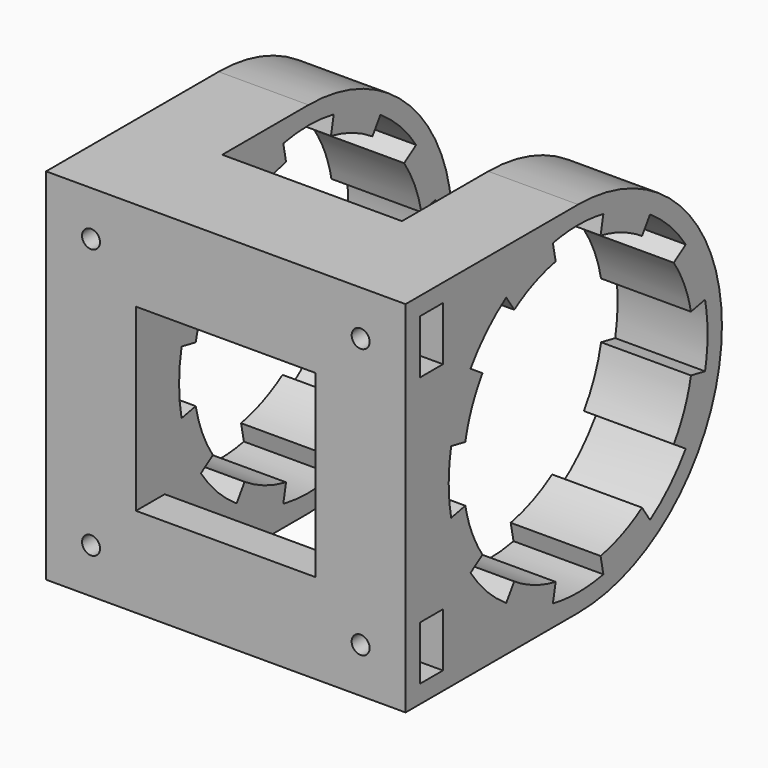
from build123d import *

# Parameters (mm, degrees)
F1_DEPTH = 50
F2_DEPTH = 25
F3_R     = 2.5
F4_DEPTH = 20
F3_W     = 50
F3_H     = 50
F5_DEPTH = 110.001
F6_W     = 8
F6_H     = 15
F7_DEPTH = 100.001


with BuildPart() as f1:
    # F0 (on Right) → F1 (new body, symmetric)
    with BuildSketch(Plane.YZ):
        with BuildLine():
            ThreePointArc((-50, 1.048e-07), (-35.3553390223, 35.3553390964), (0, 50))
            Line((0, 50), (-30, 50))
            Line((-30, 50), (-50, 30))
            Line((-50, 30), (-50, 1.048e-07))
        make_face()
        Polygon((-50, 30), (-30, 50), (-50, 50), align=None)
        Polygon((-50, -30), (-50, 1.048e-07), (-50, 30), (-50, 50), (-60, 50), (-60, -50), (-50, -50), align=None)
        with BuildLine():
            ThreePointArc((0, -50), (35.3553390593, -35.3553390593), (50, 0))
            ThreePointArc((50, 0), (35.3553390593, 35.3553390593), (0, 50))
            ThreePointArc((0, 50), (-35.3553390223, 35.3553390964), (-50, 1.048e-07))
            ThreePointArc((-50, 1.048e-07), (-35.3553390964, -35.3553390223), (0, -50))
        make_face()
        with BuildLine():
            ThreePointArc((44.1353376181, 8.7790644907), (44.7833127002, 4.4107713148), (45, 0))
            ThreePointArc((45, 0), (44.7833127002, -4.4107713148), (44.1353376181, -8.7790644907))
            ThreePointArc((44.1353376181, -8.7790644907), (43.0623151079, -13.0628104765), (41.574578963, -17.2207544564))
            ThreePointArc((41.574578963, -17.2207544564), (39.6864568957, -21.2128531572), (37.4161325536, -25.0006604859))
            ThreePointArc((37.4161325536, -25.0006604859), (34.7854704013, -28.5476977874), (31.8198051534, -31.8198051534))
            ThreePointArc((31.8198051534, -31.8198051534), (28.5476977874, -34.7854704013), (25.0006604859, -37.4161325536))
            ThreePointArc((25.0006604859, -37.4161325536), (21.2128531572, -39.6864568957), (17.2207544564, -41.574578963))
            ThreePointArc((17.2207544564, -41.574578963), (13.0628104765, -43.0623151079), (8.7790644907, -44.1353376181))
            ThreePointArc((8.7790644907, -44.1353376181), (4.4107713148, -44.7833127002), (0, -45))
            ThreePointArc((0, -45), (-4.4107713148, -44.7833127002), (-8.7790644907, -44.1353376181))
            ThreePointArc((-8.7790644907, -44.1353376181), (-13.0628104765, -43.0623151079), (-17.2207544564, -41.574578963))
            ThreePointArc((-17.2207544564, -41.574578963), (-21.2128531572, -39.6864568957), (-25.0006604859, -37.4161325536))
            ThreePointArc((-25.0006604859, -37.4161325536), (-28.5476977874, -34.7854704013), (-31.8198051534, -31.8198051534))
            ThreePointArc((-31.8198051534, -31.8198051534), (-34.7854704013, -28.5476977874), (-37.4161325536, -25.0006604859))
            ThreePointArc((-37.4161325536, -25.0006604859), (-39.6864568957, -21.2128531572), (-41.574578963, -17.2207544564))
            ThreePointArc((-41.574578963, -17.2207544564), (-43.0623151079, -13.0628104765), (-44.1353376181, -8.7790644907))
            ThreePointArc((-44.1353376181, -8.7790644907), (-44.7833127002, -4.4107713148), (-45, 0))
            ThreePointArc((-45, 0), (-44.7833127002, 4.4107713148), (-44.1353376181, 8.7790644907))
            ThreePointArc((-44.1353376181, 8.7790644907), (-43.0623151079, 13.0628104765), (-41.574578963, 17.2207544564))
            ThreePointArc((-41.574578963, 17.2207544564), (-39.6864568957, 21.2128531572), (-37.4161325536, 25.0006604859))
            ThreePointArc((-37.4161325536, 25.0006604859), (-34.7854704013, 28.5476977874), (-31.8198051534, 31.8198051534))
            ThreePointArc((-31.8198051534, 31.8198051534), (-28.5476977874, 34.7854704013), (-25.0006604859, 37.4161325536))
            ThreePointArc((-25.0006604859, 37.4161325536), (-21.2128531572, 39.6864568957), (-17.2207544564, 41.574578963))
            ThreePointArc((-17.2207544564, 41.574578963), (-13.0628104765, 43.0623151079), (-8.7790644907, 44.1353376181))
            ThreePointArc((-8.7790644907, 44.1353376181), (-4.4107713148, 44.7833127002), (0, 45))
            ThreePointArc((0, 45), (4.4107713148, 44.7833127002), (8.7790644907, 44.1353376181))
            ThreePointArc((8.7790644907, 44.1353376181), (13.0628104765, 43.0623151079), (17.2207544564, 41.574578963))
            ThreePointArc((17.2207544564, 41.574578963), (21.2128531572, 39.6864568957), (25.0006604859, 37.4161325536))
            ThreePointArc((25.0006604859, 37.4161325536), (28.5476977874, 34.7854704013), (31.8198051534, 31.8198051534))
            ThreePointArc((31.8198051534, 31.8198051534), (34.7854704013, 28.5476977874), (37.4161325536, 25.0006604859))
            ThreePointArc((37.4161325536, 25.0006604859), (39.6864568957, 21.2128531572), (41.574578963, 17.2207544564))
            ThreePointArc((41.574578963, 17.2207544564), (43.0623151079, 13.0628104765), (44.1353376181, 8.7790644907))
        make_face(mode=Mode.SUBTRACT)
        with BuildLine():
            ThreePointArc((-15.3073372946, 36.9551813005), (-11.6113870902, 38.2776134293), (-7.8036128806, 39.2314112161))
            Line((-7.8036128806, 39.2314112161), (-8.7790644907, 44.1353376181))
            ThreePointArc((-8.7790644907, 44.1353376181), (-13.0628104765, 43.0623151079), (-17.2207544564, 41.574578963))
            Line((-17.2207544564, 41.574578963), (-15.3073372946, 36.9551813005))
        make_face()
        with BuildLine():
            ThreePointArc((-22.2228093208, 33.2587844921), (-18.855869473, 35.2768505739), (-15.3073372946, 36.9551813005))
            Line((-15.3073372946, 36.9551813005), (-17.2207544564, 41.574578963))
            ThreePointArc((-17.2207544564, 41.574578963), (-21.2128531572, 39.6864568957), (-25.0006604859, 37.4161325536))
            Line((-25.0006604859, 37.4161325536), (-22.2228093208, 33.2587844921))
        make_face()
        with BuildLine():
            ThreePointArc((-36.9551813005, 15.3073372946), (-35.2768505739, 18.855869473), (-33.2587844921, 22.2228093208))
            Line((-33.2587844921, 22.2228093208), (-37.4161325536, 25.0006604859))
            ThreePointArc((-37.4161325536, 25.0006604859), (-39.6864568957, 21.2128531572), (-41.574578963, 17.2207544564))
            Line((-41.574578963, 17.2207544564), (-36.9551813005, 15.3073372946))
        make_face()
        with BuildLine():
            ThreePointArc((-39.2314112161, 7.8036128806), (-38.2776134293, 11.6113870902), (-36.9551813005, 15.3073372946))
            Line((-36.9551813005, 15.3073372946), (-41.574578963, 17.2207544564))
            ThreePointArc((-41.574578963, 17.2207544564), (-43.0623151079, 13.0628104765), (-44.1353376181, 8.7790644907))
            Line((-44.1353376181, 8.7790644907), (-39.2314112161, 7.8036128806))
        make_face()
        with BuildLine():
            ThreePointArc((-36.9551813005, -15.3073372946), (-38.2776134293, -11.6113870902), (-39.2314112161, -7.8036128806))
            Line((-39.2314112161, -7.8036128806), (-44.1353376181, -8.7790644907))
            ThreePointArc((-44.1353376181, -8.7790644907), (-43.0623151079, -13.0628104765), (-41.574578963, -17.2207544564))
            Line((-41.574578963, -17.2207544564), (-36.9551813005, -15.3073372946))
        make_face()
        with BuildLine():
            ThreePointArc((-33.2587844921, -22.2228093208), (-35.2768505739, -18.855869473), (-36.9551813005, -15.3073372946))
            Line((-36.9551813005, -15.3073372946), (-41.574578963, -17.2207544564))
            ThreePointArc((-41.574578963, -17.2207544564), (-39.6864568957, -21.2128531572), (-37.4161325536, -25.0006604859))
            Line((-37.4161325536, -25.0006604859), (-33.2587844921, -22.2228093208))
        make_face()
        with BuildLine():
            ThreePointArc((-15.3073372946, -36.9551813005), (-18.855869473, -35.2768505739), (-22.2228093208, -33.2587844921))
            Line((-22.2228093208, -33.2587844921), (-25.0006604859, -37.4161325536))
            ThreePointArc((-25.0006604859, -37.4161325536), (-21.2128531572, -39.6864568957), (-17.2207544564, -41.574578963))
            Line((-17.2207544564, -41.574578963), (-15.3073372946, -36.9551813005))
        make_face()
        with BuildLine():
            ThreePointArc((-7.8036128806, -39.2314112161), (-11.6113870902, -38.2776134293), (-15.3073372946, -36.9551813005))
            Line((-15.3073372946, -36.9551813005), (-17.2207544564, -41.574578963))
            ThreePointArc((-17.2207544564, -41.574578963), (-13.0628104765, -43.0623151079), (-8.7790644907, -44.1353376181))
            Line((-8.7790644907, -44.1353376181), (-7.8036128806, -39.2314112161))
        make_face()
        with BuildLine():
            ThreePointArc((15.3073372946, -36.9551813005), (11.6113870902, -38.2776134293), (7.8036128806, -39.2314112161))
            Line((7.8036128806, -39.2314112161), (8.7790644907, -44.1353376181))
            ThreePointArc((8.7790644907, -44.1353376181), (13.0628104765, -43.0623151079), (17.2207544564, -41.574578963))
            Line((17.2207544564, -41.574578963), (15.3073372946, -36.9551813005))
        make_face()
        with BuildLine():
            ThreePointArc((22.2228093208, -33.2587844921), (18.855869473, -35.2768505739), (15.3073372946, -36.9551813005))
            Line((15.3073372946, -36.9551813005), (17.2207544564, -41.574578963))
            ThreePointArc((17.2207544564, -41.574578963), (21.2128531572, -39.6864568957), (25.0006604859, -37.4161325536))
            Line((25.0006604859, -37.4161325536), (22.2228093208, -33.2587844921))
        make_face()
        with BuildLine():
            Line((41.574578963, -17.2207544564), (36.9551813005, -15.3073372946))
            ThreePointArc((36.9551813005, -15.3073372946), (35.2768505739, -18.855869473), (33.2587844921, -22.2228093208))
            Line((33.2587844921, -22.2228093208), (37.4161325536, -25.0006604859))
            ThreePointArc((37.4161325536, -25.0006604859), (39.6864568957, -21.2128531572), (41.574578963, -17.2207544564))
        make_face()
        with BuildLine():
            Line((44.1353376181, -8.7790644907), (39.2314112161, -7.8036128806))
            ThreePointArc((39.2314112161, -7.8036128806), (38.2776134293, -11.6113870902), (36.9551813005, -15.3073372946))
            Line((36.9551813005, -15.3073372946), (41.574578963, -17.2207544564))
            ThreePointArc((41.574578963, -17.2207544564), (43.0623151079, -13.0628104765), (44.1353376181, -8.7790644907))
        make_face()
        with BuildLine():
            ThreePointArc((36.9551813005, 15.3073372946), (38.2776134293, 11.6113870902), (39.2314112161, 7.8036128806))
            Line((39.2314112161, 7.8036128806), (44.1353376181, 8.7790644907))
            ThreePointArc((44.1353376181, 8.7790644907), (43.0623151079, 13.0628104765), (41.574578963, 17.2207544564))
            Line((41.574578963, 17.2207544564), (36.9551813005, 15.3073372946))
        make_face()
        with BuildLine():
            ThreePointArc((33.2587844921, 22.2228093208), (35.2768505739, 18.855869473), (36.9551813005, 15.3073372946))
            Line((36.9551813005, 15.3073372946), (41.574578963, 17.2207544564))
            ThreePointArc((41.574578963, 17.2207544564), (39.6864568957, 21.2128531572), (37.4161325536, 25.0006604859))
            Line((37.4161325536, 25.0006604859), (33.2587844921, 22.2228093208))
        make_face()
        with BuildLine():
            ThreePointArc((15.3073372946, 36.9551813005), (18.855869473, 35.2768505739), (22.2228093208, 33.2587844921))
            Line((22.2228093208, 33.2587844921), (25.0006604859, 37.4161325536))
            ThreePointArc((25.0006604859, 37.4161325536), (21.2128531572, 39.6864568957), (17.2207544564, 41.574578963))
            Line((17.2207544564, 41.574578963), (15.3073372946, 36.9551813005))
        make_face()
        with BuildLine():
            ThreePointArc((7.8036128806, 39.2314112161), (11.6113870902, 38.2776134293), (15.3073372946, 36.9551813005))
            Line((15.3073372946, 36.9551813005), (17.2207544564, 41.574578963))
            ThreePointArc((17.2207544564, 41.574578963), (13.0628104765, 43.0623151079), (8.7790644907, 44.1353376181))
            Line((8.7790644907, 44.1353376181), (7.8036128806, 39.2314112161))
        make_face()
        Polygon((-50, -30), (-50, 1.048e-07), (-50, 30), (-50, 50), (-60, 50), (-60, -50), (-50, -50), align=None)
        with BuildLine():
            Line((-30, -50), (0, -50))
            ThreePointArc((0, -50), (-35.3553390964, -35.3553390223), (-50, 1.048e-07))
            Line((-50, 1.048e-07), (-50, -30))
            Line((-50, -30), (-30, -50))
        make_face()
        with BuildLine():
            ThreePointArc((-50, 1.048e-07), (-35.3553390223, 35.3553390964), (0, 50))
            Line((0, 50), (-30, 50))
            Line((-30, 50), (-50, 30))
            Line((-50, 30), (-50, 1.048e-07))
        make_face()
        Polygon((-50, -50), (-30, -50), (-50, -30), align=None)
    extrude(amount=F1_DEPTH, both=True)

    # F0 (on Right) → F2 (cut, symmetric)
    with BuildSketch(Plane.YZ):
        with BuildLine():
            ThreePointArc((0, -50), (35.3553390593, -35.3553390593), (50, 0))
            ThreePointArc((50, 0), (35.3553390593, 35.3553390593), (0, 50))
            ThreePointArc((0, 50), (-35.3553390223, 35.3553390964), (-50, 1.048e-07))
            ThreePointArc((-50, 1.048e-07), (-35.3553390964, -35.3553390223), (0, -50))
        make_face()
        with BuildLine():
            ThreePointArc((44.1353376181, 8.7790644907), (44.7833127002, 4.4107713148), (45, 0))
            ThreePointArc((45, 0), (44.7833127002, -4.4107713148), (44.1353376181, -8.7790644907))
            ThreePointArc((44.1353376181, -8.7790644907), (43.0623151079, -13.0628104765), (41.574578963, -17.2207544564))
            ThreePointArc((41.574578963, -17.2207544564), (39.6864568957, -21.2128531572), (37.4161325536, -25.0006604859))
            ThreePointArc((37.4161325536, -25.0006604859), (34.7854704013, -28.5476977874), (31.8198051534, -31.8198051534))
            ThreePointArc((31.8198051534, -31.8198051534), (28.5476977874, -34.7854704013), (25.0006604859, -37.4161325536))
            ThreePointArc((25.0006604859, -37.4161325536), (21.2128531572, -39.6864568957), (17.2207544564, -41.574578963))
            ThreePointArc((17.2207544564, -41.574578963), (13.0628104765, -43.0623151079), (8.7790644907, -44.1353376181))
            ThreePointArc((8.7790644907, -44.1353376181), (4.4107713148, -44.7833127002), (0, -45))
            ThreePointArc((0, -45), (-4.4107713148, -44.7833127002), (-8.7790644907, -44.1353376181))
            ThreePointArc((-8.7790644907, -44.1353376181), (-13.0628104765, -43.0623151079), (-17.2207544564, -41.574578963))
            ThreePointArc((-17.2207544564, -41.574578963), (-21.2128531572, -39.6864568957), (-25.0006604859, -37.4161325536))
            ThreePointArc((-25.0006604859, -37.4161325536), (-28.5476977874, -34.7854704013), (-31.8198051534, -31.8198051534))
            ThreePointArc((-31.8198051534, -31.8198051534), (-34.7854704013, -28.5476977874), (-37.4161325536, -25.0006604859))
            ThreePointArc((-37.4161325536, -25.0006604859), (-39.6864568957, -21.2128531572), (-41.574578963, -17.2207544564))
            ThreePointArc((-41.574578963, -17.2207544564), (-43.0623151079, -13.0628104765), (-44.1353376181, -8.7790644907))
            ThreePointArc((-44.1353376181, -8.7790644907), (-44.7833127002, -4.4107713148), (-45, 0))
            ThreePointArc((-45, 0), (-44.7833127002, 4.4107713148), (-44.1353376181, 8.7790644907))
            ThreePointArc((-44.1353376181, 8.7790644907), (-43.0623151079, 13.0628104765), (-41.574578963, 17.2207544564))
            ThreePointArc((-41.574578963, 17.2207544564), (-39.6864568957, 21.2128531572), (-37.4161325536, 25.0006604859))
            ThreePointArc((-37.4161325536, 25.0006604859), (-34.7854704013, 28.5476977874), (-31.8198051534, 31.8198051534))
            ThreePointArc((-31.8198051534, 31.8198051534), (-28.5476977874, 34.7854704013), (-25.0006604859, 37.4161325536))
            ThreePointArc((-25.0006604859, 37.4161325536), (-21.2128531572, 39.6864568957), (-17.2207544564, 41.574578963))
            ThreePointArc((-17.2207544564, 41.574578963), (-13.0628104765, 43.0623151079), (-8.7790644907, 44.1353376181))
            ThreePointArc((-8.7790644907, 44.1353376181), (-4.4107713148, 44.7833127002), (0, 45))
            ThreePointArc((0, 45), (4.4107713148, 44.7833127002), (8.7790644907, 44.1353376181))
            ThreePointArc((8.7790644907, 44.1353376181), (13.0628104765, 43.0623151079), (17.2207544564, 41.574578963))
            ThreePointArc((17.2207544564, 41.574578963), (21.2128531572, 39.6864568957), (25.0006604859, 37.4161325536))
            ThreePointArc((25.0006604859, 37.4161325536), (28.5476977874, 34.7854704013), (31.8198051534, 31.8198051534))
            ThreePointArc((31.8198051534, 31.8198051534), (34.7854704013, 28.5476977874), (37.4161325536, 25.0006604859))
            ThreePointArc((37.4161325536, 25.0006604859), (39.6864568957, 21.2128531572), (41.574578963, 17.2207544564))
            ThreePointArc((41.574578963, 17.2207544564), (43.0623151079, 13.0628104765), (44.1353376181, 8.7790644907))
        make_face(mode=Mode.SUBTRACT)
        with BuildLine():
            ThreePointArc((0, -40), (-3.9206856132, -39.8073890669), (-7.8036128806, -39.2314112161))
            Line((-7.8036128806, -39.2314112161), (-8.7790644907, -44.1353376181))
            ThreePointArc((-8.7790644907, -44.1353376181), (-4.4107713148, -44.7833127002), (0, -45))
            Line((0, -45), (0, -40))
        make_face()
        with BuildLine():
            Line((0, 0), (40, 0))
            ThreePointArc((40, 0), (39.8073890669, 3.9206856132), (39.2314112161, 7.8036128806))
            Line((39.2314112161, 7.8036128806), (0, 0))
        make_face()
        with BuildLine():
            ThreePointArc((39.2314112161, -7.8036128806), (39.8073890669, -3.9206856132), (40, 0))
            Line((40, 0), (0, 0))
            Line((0, 0), (39.2314112161, -7.8036128806))
        make_face()
        with BuildLine():
            Line((0, 0), (39.2314112161, 7.8036128806))
            ThreePointArc((39.2314112161, 7.8036128806), (38.2776134293, 11.6113870902), (36.9551813005, 15.3073372946))
            Line((36.9551813005, 15.3073372946), (0, 0))
        make_face()
        with BuildLine():
            ThreePointArc((-22.2228093208, 33.2587844921), (-18.855869473, 35.2768505739), (-15.3073372946, 36.9551813005))
            Line((-15.3073372946, 36.9551813005), (-17.2207544564, 41.574578963))
            ThreePointArc((-17.2207544564, 41.574578963), (-21.2128531572, 39.6864568957), (-25.0006604859, 37.4161325536))
            Line((-25.0006604859, 37.4161325536), (-22.2228093208, 33.2587844921))
        make_face()
        with BuildLine():
            ThreePointArc((-33.2587844921, 22.2228093208), (-30.9204181345, 25.3757313665), (-28.2842712475, 28.2842712475))
            Line((-28.2842712475, 28.2842712475), (-31.8198051534, 31.8198051534))
            ThreePointArc((-31.8198051534, 31.8198051534), (-34.7854704013, 28.5476977874), (-37.4161325536, 25.0006604859))
            Line((-37.4161325536, 25.0006604859), (-33.2587844921, 22.2228093208))
        make_face()
        with BuildLine():
            ThreePointArc((-33.2587844921, -22.2228093208), (-35.2768505739, -18.855869473), (-36.9551813005, -15.3073372946))
            Line((-36.9551813005, -15.3073372946), (-41.574578963, -17.2207544564))
            ThreePointArc((-41.574578963, -17.2207544564), (-39.6864568957, -21.2128531572), (-37.4161325536, -25.0006604859))
            Line((-37.4161325536, -25.0006604859), (-33.2587844921, -22.2228093208))
        make_face()
        with BuildLine():
            Line((-15.3073372946, 36.9551813005), (0, 0))
            Line((0, 0), (-7.8036128806, 39.2314112161))
            ThreePointArc((-7.8036128806, 39.2314112161), (-11.6113870902, 38.2776134293), (-15.3073372946, 36.9551813005))
        make_face()
        with BuildLine():
            ThreePointArc((33.2587844921, -22.2228093208), (30.9204181345, -25.3757313665), (28.2842712475, -28.2842712475))
            Line((28.2842712475, -28.2842712475), (31.8198051534, -31.8198051534))
            ThreePointArc((31.8198051534, -31.8198051534), (34.7854704013, -28.5476977874), (37.4161325536, -25.0006604859))
            Line((37.4161325536, -25.0006604859), (33.2587844921, -22.2228093208))
        make_face()
        with BuildLine():
            Line((-45, 0), (-40, 0))
            ThreePointArc((-40, 0), (-39.8073890669, 3.9206856132), (-39.2314112161, 7.8036128806))
            Line((-39.2314112161, 7.8036128806), (-44.1353376181, 8.7790644907))
            ThreePointArc((-44.1353376181, 8.7790644907), (-44.7833127002, 4.4107713148), (-45, 0))
        make_face()
        with BuildLine():
            ThreePointArc((22.2228093208, 33.2587844921), (25.3757313665, 30.9204181345), (28.2842712475, 28.2842712475))
            Line((28.2842712475, 28.2842712475), (31.8198051534, 31.8198051534))
            ThreePointArc((31.8198051534, 31.8198051534), (28.5476977874, 34.7854704013), (25.0006604859, 37.4161325536))
            Line((25.0006604859, 37.4161325536), (22.2228093208, 33.2587844921))
        make_face()
        with BuildLine():
            ThreePointArc((36.9551813005, 15.3073372946), (38.2776134293, 11.6113870902), (39.2314112161, 7.8036128806))
            Line((39.2314112161, 7.8036128806), (44.1353376181, 8.7790644907))
            ThreePointArc((44.1353376181, 8.7790644907), (43.0623151079, 13.0628104765), (41.574578963, 17.2207544564))
            Line((41.574578963, 17.2207544564), (36.9551813005, 15.3073372946))
        make_face()
        with BuildLine():
            ThreePointArc((7.8036128806, -39.2314112161), (3.9206856132, -39.8073890669), (0, -40))
            Line((0, -40), (0, -45))
            ThreePointArc((0, -45), (4.4107713148, -44.7833127002), (8.7790644907, -44.1353376181))
            Line((8.7790644907, -44.1353376181), (7.8036128806, -39.2314112161))
        make_face()
        with BuildLine():
            Line((-39.2314112161, -7.8036128806), (0, 0))
            Line((0, 0), (-40, 0))
            ThreePointArc((-40, 0), (-39.8073890669, -3.9206856132), (-39.2314112161, -7.8036128806))
        make_face()
        with BuildLine():
            ThreePointArc((39.2314112161, 7.8036128806), (39.8073890669, 3.9206856132), (40, 0))
            Line((40, 0), (45, 0))
            ThreePointArc((45, 0), (44.7833127002, 4.4107713148), (44.1353376181, 8.7790644907))
            Line((44.1353376181, 8.7790644907), (39.2314112161, 7.8036128806))
        make_face()
        with BuildLine():
            ThreePointArc((-7.8036128806, -39.2314112161), (-11.6113870902, -38.2776134293), (-15.3073372946, -36.9551813005))
            Line((-15.3073372946, -36.9551813005), (-17.2207544564, -41.574578963))
            ThreePointArc((-17.2207544564, -41.574578963), (-13.0628104765, -43.0623151079), (-8.7790644907, -44.1353376181))
            Line((-8.7790644907, -44.1353376181), (-7.8036128806, -39.2314112161))
        make_face()
        with BuildLine():
            Line((15.3073372946, -36.9551813005), (0, 0))
            Line((0, 0), (7.8036128806, -39.2314112161))
            ThreePointArc((7.8036128806, -39.2314112161), (11.6113870902, -38.2776134293), (15.3073372946, -36.9551813005))
        make_face()
        with BuildLine():
            Line((-7.8036128806, 39.2314112161), (0, 0))
            Line((0, 0), (0, 40))
            ThreePointArc((0, 40), (-3.9206856132, 39.8073890669), (-7.8036128806, 39.2314112161))
        make_face()
        with BuildLine():
            Line((-22.2228093208, 33.2587844921), (0, 0))
            Line((0, 0), (-15.3073372946, 36.9551813005))
            ThreePointArc((-15.3073372946, 36.9551813005), (-18.855869473, 35.2768505739), (-22.2228093208, 33.2587844921))
        make_face()
        with BuildLine():
            ThreePointArc((-15.3073372946, -36.9551813005), (-18.855869473, -35.2768505739), (-22.2228093208, -33.2587844921))
            Line((-22.2228093208, -33.2587844921), (-25.0006604859, -37.4161325536))
            ThreePointArc((-25.0006604859, -37.4161325536), (-21.2128531572, -39.6864568957), (-17.2207544564, -41.574578963))
            Line((-17.2207544564, -41.574578963), (-15.3073372946, -36.9551813005))
        make_face()
        with BuildLine():
            Line((33.2587844921, -22.2228093208), (0, 0))
            Line((0, 0), (28.2842712475, -28.2842712475))
            ThreePointArc((28.2842712475, -28.2842712475), (30.9204181345, -25.3757313665), (33.2587844921, -22.2228093208))
        make_face()
        with BuildLine():
            ThreePointArc((-28.2842712475, -28.2842712475), (-30.9204181345, -25.3757313665), (-33.2587844921, -22.2228093208))
            Line((-33.2587844921, -22.2228093208), (-37.4161325536, -25.0006604859))
            ThreePointArc((-37.4161325536, -25.0006604859), (-34.7854704013, -28.5476977874), (-31.8198051534, -31.8198051534))
            Line((-31.8198051534, -31.8198051534), (-28.2842712475, -28.2842712475))
        make_face()
        with BuildLine():
            ThreePointArc((28.2842712475, 28.2842712475), (30.9204181345, 25.3757313665), (33.2587844921, 22.2228093208))
            Line((33.2587844921, 22.2228093208), (37.4161325536, 25.0006604859))
            ThreePointArc((37.4161325536, 25.0006604859), (34.7854704013, 28.5476977874), (31.8198051534, 31.8198051534))
            Line((31.8198051534, 31.8198051534), (28.2842712475, 28.2842712475))
        make_face()
        with BuildLine():
            Line((33.2587844921, 22.2228093208), (0, 0))
            Line((0, 0), (36.9551813005, 15.3073372946))
            ThreePointArc((36.9551813005, 15.3073372946), (35.2768505739, 18.855869473), (33.2587844921, 22.2228093208))
        make_face()
        with BuildLine():
            Line((-7.8036128806, -39.2314112161), (0, 0))
            Line((0, 0), (-15.3073372946, -36.9551813005))
            ThreePointArc((-15.3073372946, -36.9551813005), (-11.6113870902, -38.2776134293), (-7.8036128806, -39.2314112161))
        make_face()
        with BuildLine():
            ThreePointArc((33.2587844921, 22.2228093208), (35.2768505739, 18.855869473), (36.9551813005, 15.3073372946))
            Line((36.9551813005, 15.3073372946), (41.574578963, 17.2207544564))
            ThreePointArc((41.574578963, 17.2207544564), (39.6864568957, 21.2128531572), (37.4161325536, 25.0006604859))
            Line((37.4161325536, 25.0006604859), (33.2587844921, 22.2228093208))
        make_face()
        with BuildLine():
            ThreePointArc((15.3073372946, -36.9551813005), (11.6113870902, -38.2776134293), (7.8036128806, -39.2314112161))
            Line((7.8036128806, -39.2314112161), (8.7790644907, -44.1353376181))
            ThreePointArc((8.7790644907, -44.1353376181), (13.0628104765, -43.0623151079), (17.2207544564, -41.574578963))
            Line((17.2207544564, -41.574578963), (15.3073372946, -36.9551813005))
        make_face()
        with BuildLine():
            Line((45, 0), (40, 0))
            ThreePointArc((40, 0), (39.8073890669, -3.9206856132), (39.2314112161, -7.8036128806))
            Line((39.2314112161, -7.8036128806), (44.1353376181, -8.7790644907))
            ThreePointArc((44.1353376181, -8.7790644907), (44.7833127002, -4.4107713148), (45, 0))
        make_face()
        with BuildLine():
            Line((-36.9551813005, 15.3073372946), (0, 0))
            Line((0, 0), (-33.2587844921, 22.2228093208))
            ThreePointArc((-33.2587844921, 22.2228093208), (-35.2768505739, 18.855869473), (-36.9551813005, 15.3073372946))
        make_face()
        with BuildLine():
            Line((-33.2587844921, 22.2228093208), (0, 0))
            Line((0, 0), (-28.2842712475, 28.2842712475))
            ThreePointArc((-28.2842712475, 28.2842712475), (-30.9204181345, 25.3757313665), (-33.2587844921, 22.2228093208))
        make_face()
        with BuildLine():
            Line((-40, 0), (0, 0))
            Line((0, 0), (-39.2314112161, 7.8036128806))
            ThreePointArc((-39.2314112161, 7.8036128806), (-39.8073890669, 3.9206856132), (-40, 0))
        make_face()
        with BuildLine():
            Line((15.3073372946, 36.9551813005), (0, 0))
            Line((0, 0), (22.2228093208, 33.2587844921))
            ThreePointArc((22.2228093208, 33.2587844921), (18.855869473, 35.2768505739), (15.3073372946, 36.9551813005))
        make_face()
        with BuildLine():
            Line((36.9551813005, -15.3073372946), (0, 0))
            Line((0, 0), (33.2587844921, -22.2228093208))
            ThreePointArc((33.2587844921, -22.2228093208), (35.2768505739, -18.855869473), (36.9551813005, -15.3073372946))
        make_face()
        with BuildLine():
            ThreePointArc((-36.9551813005, 15.3073372946), (-35.2768505739, 18.855869473), (-33.2587844921, 22.2228093208))
            Line((-33.2587844921, 22.2228093208), (-37.4161325536, 25.0006604859))
            ThreePointArc((-37.4161325536, 25.0006604859), (-39.6864568957, 21.2128531572), (-41.574578963, 17.2207544564))
            Line((-41.574578963, 17.2207544564), (-36.9551813005, 15.3073372946))
        make_face()
        with BuildLine():
            ThreePointArc((-28.2842712475, 28.2842712475), (-25.3757313665, 30.9204181345), (-22.2228093208, 33.2587844921))
            Line((-22.2228093208, 33.2587844921), (-25.0006604859, 37.4161325536))
            ThreePointArc((-25.0006604859, 37.4161325536), (-28.5476977874, 34.7854704013), (-31.8198051534, 31.8198051534))
            Line((-31.8198051534, 31.8198051534), (-28.2842712475, 28.2842712475))
        make_face()
        with BuildLine():
            ThreePointArc((28.2842712475, -28.2842712475), (25.3757313665, -30.9204181345), (22.2228093208, -33.2587844921))
            Line((22.2228093208, -33.2587844921), (25.0006604859, -37.4161325536))
            ThreePointArc((25.0006604859, -37.4161325536), (28.5476977874, -34.7854704013), (31.8198051534, -31.8198051534))
            Line((31.8198051534, -31.8198051534), (28.2842712475, -28.2842712475))
        make_face()
        with BuildLine():
            Line((28.2842712475, -28.2842712475), (0, 0))
            Line((0, 0), (22.2228093208, -33.2587844921))
            ThreePointArc((22.2228093208, -33.2587844921), (25.3757313665, -30.9204181345), (28.2842712475, -28.2842712475))
        make_face()
        with BuildLine():
            ThreePointArc((-22.2228093208, -33.2587844921), (-25.3757313665, -30.9204181345), (-28.2842712475, -28.2842712475))
            Line((-28.2842712475, -28.2842712475), (-31.8198051534, -31.8198051534))
            ThreePointArc((-31.8198051534, -31.8198051534), (-28.5476977874, -34.7854704013), (-25.0006604859, -37.4161325536))
            Line((-25.0006604859, -37.4161325536), (-22.2228093208, -33.2587844921))
        make_face()
        with BuildLine():
            ThreePointArc((22.2228093208, -33.2587844921), (18.855869473, -35.2768505739), (15.3073372946, -36.9551813005))
            Line((15.3073372946, -36.9551813005), (17.2207544564, -41.574578963))
            ThreePointArc((17.2207544564, -41.574578963), (21.2128531572, -39.6864568957), (25.0006604859, -37.4161325536))
            Line((25.0006604859, -37.4161325536), (22.2228093208, -33.2587844921))
        make_face()
        with BuildLine():
            Line((-15.3073372946, -36.9551813005), (0, 0))
            Line((0, 0), (-22.2228093208, -33.2587844921))
            ThreePointArc((-22.2228093208, -33.2587844921), (-18.855869473, -35.2768505739), (-15.3073372946, -36.9551813005))
        make_face()
        with BuildLine():
            ThreePointArc((-36.9551813005, -15.3073372946), (-38.2776134293, -11.6113870902), (-39.2314112161, -7.8036128806))
            Line((-39.2314112161, -7.8036128806), (-44.1353376181, -8.7790644907))
            ThreePointArc((-44.1353376181, -8.7790644907), (-43.0623151079, -13.0628104765), (-41.574578963, -17.2207544564))
            Line((-41.574578963, -17.2207544564), (-36.9551813005, -15.3073372946))
        make_face()
        with BuildLine():
            Line((-36.9551813005, -15.3073372946), (0, 0))
            Line((0, 0), (-39.2314112161, -7.8036128806))
            ThreePointArc((-39.2314112161, -7.8036128806), (-38.2776134293, -11.6113870902), (-36.9551813005, -15.3073372946))
        make_face()
        with BuildLine():
            ThreePointArc((36.9551813005, -15.3073372946), (38.2776134293, -11.6113870902), (39.2314112161, -7.8036128806))
            Line((39.2314112161, -7.8036128806), (0, 0))
            Line((0, 0), (36.9551813005, -15.3073372946))
        make_face()
        with BuildLine():
            Line((7.8036128806, 39.2314112161), (0, 0))
            Line((0, 0), (15.3073372946, 36.9551813005))
            ThreePointArc((15.3073372946, 36.9551813005), (11.6113870902, 38.2776134293), (7.8036128806, 39.2314112161))
        make_face()
        with BuildLine():
            Line((-28.2842712475, 28.2842712475), (0, 0))
            Line((0, 0), (-22.2228093208, 33.2587844921))
            ThreePointArc((-22.2228093208, 33.2587844921), (-25.3757313665, 30.9204181345), (-28.2842712475, 28.2842712475))
        make_face()
        with BuildLine():
            Line((0, -40), (0, 0))
            Line((0, 0), (-7.8036128806, -39.2314112161))
            ThreePointArc((-7.8036128806, -39.2314112161), (-3.9206856132, -39.8073890669), (0, -40))
        make_face()
        with BuildLine():
            ThreePointArc((-39.2314112161, -7.8036128806), (-39.8073890669, -3.9206856132), (-40, 0))
            Line((-40, 0), (-45, 0))
            ThreePointArc((-45, 0), (-44.7833127002, -4.4107713148), (-44.1353376181, -8.7790644907))
            Line((-44.1353376181, -8.7790644907), (-39.2314112161, -7.8036128806))
        make_face()
        with BuildLine():
            Line((-33.2587844921, -22.2228093208), (0, 0))
            Line((0, 0), (-36.9551813005, -15.3073372946))
            ThreePointArc((-36.9551813005, -15.3073372946), (-35.2768505739, -18.855869473), (-33.2587844921, -22.2228093208))
        make_face()
        with BuildLine():
            ThreePointArc((-15.3073372946, 36.9551813005), (-11.6113870902, 38.2776134293), (-7.8036128806, 39.2314112161))
            Line((-7.8036128806, 39.2314112161), (-8.7790644907, 44.1353376181))
            ThreePointArc((-8.7790644907, 44.1353376181), (-13.0628104765, 43.0623151079), (-17.2207544564, 41.574578963))
            Line((-17.2207544564, 41.574578963), (-15.3073372946, 36.9551813005))
        make_face()
        with BuildLine():
            Line((-28.2842712475, -28.2842712475), (0, 0))
            Line((0, 0), (-33.2587844921, -22.2228093208))
            ThreePointArc((-33.2587844921, -22.2228093208), (-30.9204181345, -25.3757313665), (-28.2842712475, -28.2842712475))
        make_face()
        with BuildLine():
            Line((28.2842712475, 28.2842712475), (0, 0))
            Line((0, 0), (33.2587844921, 22.2228093208))
            ThreePointArc((33.2587844921, 22.2228093208), (30.9204181345, 25.3757313665), (28.2842712475, 28.2842712475))
        make_face()
        with BuildLine():
            Line((22.2228093208, 33.2587844921), (0, 0))
            Line((0, 0), (28.2842712475, 28.2842712475))
            ThreePointArc((28.2842712475, 28.2842712475), (25.3757313665, 30.9204181345), (22.2228093208, 33.2587844921))
        make_face()
        with BuildLine():
            ThreePointArc((7.8036128806, 39.2314112161), (11.6113870902, 38.2776134293), (15.3073372946, 36.9551813005))
            Line((15.3073372946, 36.9551813005), (17.2207544564, 41.574578963))
            ThreePointArc((17.2207544564, 41.574578963), (13.0628104765, 43.0623151079), (8.7790644907, 44.1353376181))
            Line((8.7790644907, 44.1353376181), (7.8036128806, 39.2314112161))
        make_face()
        with BuildLine():
            Line((7.8036128806, -39.2314112161), (0, 0))
            Line((0, 0), (0, -40))
            ThreePointArc((0, -40), (3.9206856132, -39.8073890669), (7.8036128806, -39.2314112161))
        make_face()
        with BuildLine():
            Line((-22.2228093208, -33.2587844921), (0, 0))
            Line((0, 0), (-28.2842712475, -28.2842712475))
            ThreePointArc((-28.2842712475, -28.2842712475), (-25.3757313665, -30.9204181345), (-22.2228093208, -33.2587844921))
        make_face()
        with BuildLine():
            Line((-39.2314112161, 7.8036128806), (0, 0))
            Line((0, 0), (-36.9551813005, 15.3073372946))
            ThreePointArc((-36.9551813005, 15.3073372946), (-38.2776134293, 11.6113870902), (-39.2314112161, 7.8036128806))
        make_face()
        with BuildLine():
            ThreePointArc((-7.8036128806, 39.2314112161), (-3.9206856132, 39.8073890669), (0, 40))
            Line((0, 40), (0, 45))
            ThreePointArc((0, 45), (-4.4107713148, 44.7833127002), (-8.7790644907, 44.1353376181))
            Line((-8.7790644907, 44.1353376181), (-7.8036128806, 39.2314112161))
        make_face()
        with BuildLine():
            Line((41.574578963, -17.2207544564), (36.9551813005, -15.3073372946))
            ThreePointArc((36.9551813005, -15.3073372946), (35.2768505739, -18.855869473), (33.2587844921, -22.2228093208))
            Line((33.2587844921, -22.2228093208), (37.4161325536, -25.0006604859))
            ThreePointArc((37.4161325536, -25.0006604859), (39.6864568957, -21.2128531572), (41.574578963, -17.2207544564))
        make_face()
        with BuildLine():
            Line((22.2228093208, -33.2587844921), (0, 0))
            Line((0, 0), (15.3073372946, -36.9551813005))
            ThreePointArc((15.3073372946, -36.9551813005), (18.855869473, -35.2768505739), (22.2228093208, -33.2587844921))
        make_face()
        with BuildLine():
            ThreePointArc((15.3073372946, 36.9551813005), (18.855869473, 35.2768505739), (22.2228093208, 33.2587844921))
            Line((22.2228093208, 33.2587844921), (25.0006604859, 37.4161325536))
            ThreePointArc((25.0006604859, 37.4161325536), (21.2128531572, 39.6864568957), (17.2207544564, 41.574578963))
            Line((17.2207544564, 41.574578963), (15.3073372946, 36.9551813005))
        make_face()
        with BuildLine():
            Line((0, 40), (0, 0))
            Line((0, 0), (7.8036128806, 39.2314112161))
            ThreePointArc((7.8036128806, 39.2314112161), (3.9206856132, 39.8073890669), (0, 40))
        make_face()
        with BuildLine():
            ThreePointArc((-39.2314112161, 7.8036128806), (-38.2776134293, 11.6113870902), (-36.9551813005, 15.3073372946))
            Line((-36.9551813005, 15.3073372946), (-41.574578963, 17.2207544564))
            ThreePointArc((-41.574578963, 17.2207544564), (-43.0623151079, 13.0628104765), (-44.1353376181, 8.7790644907))
            Line((-44.1353376181, 8.7790644907), (-39.2314112161, 7.8036128806))
        make_face()
        with BuildLine():
            Line((44.1353376181, -8.7790644907), (39.2314112161, -7.8036128806))
            ThreePointArc((39.2314112161, -7.8036128806), (38.2776134293, -11.6113870902), (36.9551813005, -15.3073372946))
            Line((36.9551813005, -15.3073372946), (41.574578963, -17.2207544564))
            ThreePointArc((41.574578963, -17.2207544564), (43.0623151079, -13.0628104765), (44.1353376181, -8.7790644907))
        make_face()
        with BuildLine():
            ThreePointArc((0, 40), (3.9206856132, 39.8073890669), (7.8036128806, 39.2314112161))
            Line((7.8036128806, 39.2314112161), (8.7790644907, 44.1353376181))
            ThreePointArc((8.7790644907, 44.1353376181), (4.4107713148, 44.7833127002), (0, 45))
            Line((0, 45), (0, 40))
        make_face()
        with BuildLine():
            ThreePointArc((-50, 1.048e-07), (-35.3553390223, 35.3553390964), (0, 50))
            Line((0, 50), (-30, 50))
            Line((-30, 50), (-50, 30))
            Line((-50, 30), (-50, 1.048e-07))
        make_face()
        with BuildLine():
            Line((-30, -50), (0, -50))
            ThreePointArc((0, -50), (-35.3553390964, -35.3553390223), (-50, 1.048e-07))
            Line((-50, 1.048e-07), (-50, -30))
            Line((-50, -30), (-30, -50))
        make_face()
    extrude(amount=F2_DEPTH, both=True, mode=Mode.SUBTRACT)

    # F3 (on face) → F4 (cut)
    with BuildSketch(Plane.XZ.offset(60)):
        with Locations((-37.5, 37.5)):
            Circle(F3_R)
        with Locations((37.5, 37.5)):
            Circle(F3_R)
        with Locations((37.5, -37.5)):
            Circle(F3_R)
        with Locations((-37.5, -37.5)):
            Circle(F3_R)
    extrude(amount=-F4_DEPTH, mode=Mode.SUBTRACT)

    # F3 (on face) → F5 (cut, through all)
    with BuildSketch(Plane.XZ.offset(60)):
        Rectangle(F3_W, F3_H)
    extrude(amount=-F5_DEPTH, mode=Mode.SUBTRACT)

    # F6 (on face) → F7 (cut, through all)
    with BuildSketch(Plane.YZ.offset(50)):
        with Locations((-51, 37.5)):
            Rectangle(F6_W, F6_H)
        with Locations((-51, -37.5)):
            Rectangle(F6_W, F6_H)
    extrude(amount=-F7_DEPTH, mode=Mode.SUBTRACT)


solid = f1.part
